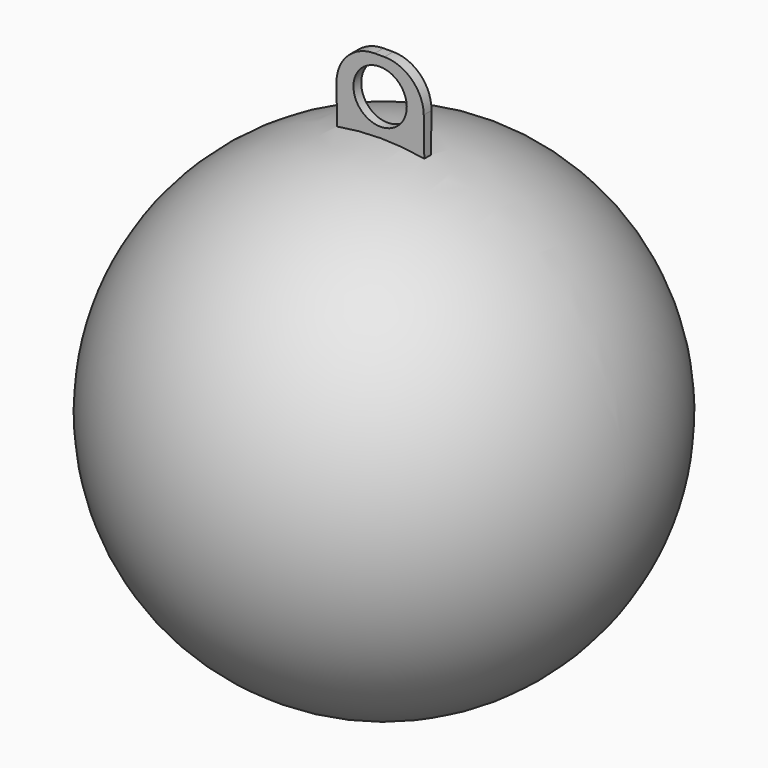
from build123d import *

# Parameters (mm, degrees)
F1_R          = 2.75
F2_ANGLE_BACK = 1
F2_ANGLE      = 2


with BuildPart() as f2:
    # F1 (on Front) → F2 (revolve)
    with BuildSketch(Plane.XZ, mode=Mode.PRIVATE) as f2_sk:
        with BuildLine():
            ThreePointArc((-4.5, 24.5916652547), (0, 25), (4.5, 24.5916652547))
            Line((4.5, 24.5916652547), (4.5, 28.5916652547))
            ThreePointArc((4.5, 28.5916652547), (3.3284271247, 31.4200923795), (0.5, 32.5916652547))
            Line((0.5, 32.5916652547), (0, 32.5916652547))
            Line((0, 32.5916652547), (-0.5, 32.5916652547))
            ThreePointArc((-0.5, 32.5916652547), (-3.3284271247, 31.4200923795), (-4.5, 28.5916652547))
            Line((-4.5, 28.5916652547), (-4.5, 24.5916652547))
        make_face()
        with Locations((0, 28.7958326274)):
            Circle(F1_R, mode=Mode.SUBTRACT)
    revolve(f2_sk.sketch.rotate(Axis((0, 0, 0), (1, 0, 0)), -F2_ANGLE_BACK), axis=Axis((0, 0, 0), (1, 0, 0)), revolution_arc=F2_ANGLE)

    # F0 (on Front) → F4 (revolve)
    with BuildSketch(Plane.XZ):
        with BuildLine():
            Line((-25, 0), (25, 0))
            ThreePointArc((25, 0), (0, 25), (-25, 0))
        make_face()
    revolve(axis=Axis((-0.5681812763, 0, 0), (1, 0, 0)))


solid = f2.part
